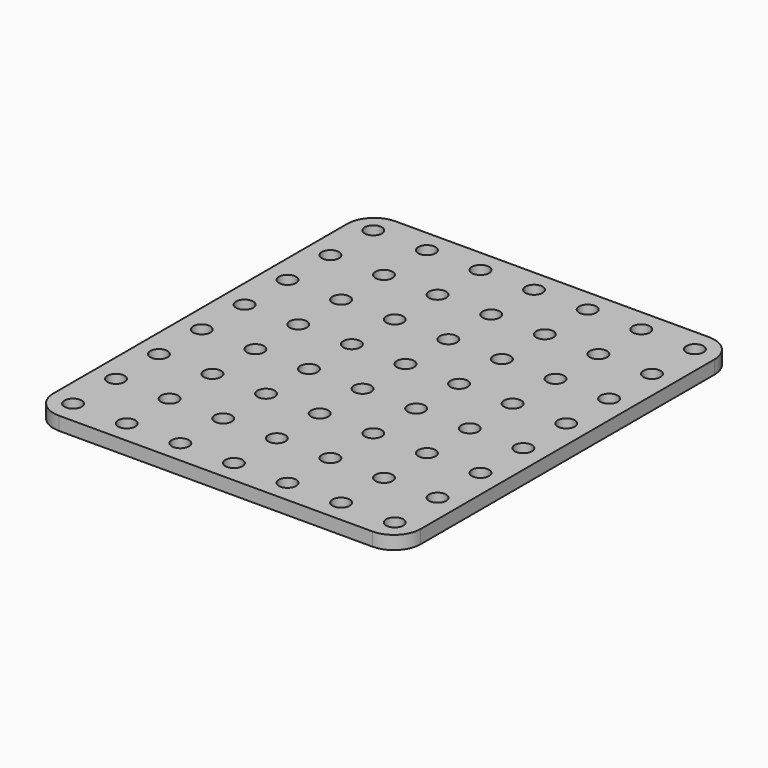
from build123d import *

# Parameters (mm, degrees)
F0_W     = 68.5
F0_H     = 78.5
F0_R     = 1.6
F1_DEPTH = 2.5
F2_R     = 5


with BuildPart() as f1:
    # F0 (on Top) → F1 (new body)
    with BuildSketch(Plane.XY):
        Rectangle(F0_W, F0_H)
        with Locations((-30, -35)):
            Circle(F0_R, mode=Mode.SUBTRACT)
        with Locations((-20, -35)):
            Circle(F0_R, mode=Mode.SUBTRACT)
        with Locations((-30, -25)):
            Circle(F0_R, mode=Mode.SUBTRACT)
        with Locations((-20, -25)):
            Circle(F0_R, mode=Mode.SUBTRACT)
        with Locations((-10, -35)):
            Circle(F0_R, mode=Mode.SUBTRACT)
        with Locations((-10, -25)):
            Circle(F0_R, mode=Mode.SUBTRACT)
        with Locations((-30, -15)):
            Circle(F0_R, mode=Mode.SUBTRACT)
        with Locations((-20, -15)):
            Circle(F0_R, mode=Mode.SUBTRACT)
        with Locations((-30, -5)):
            Circle(F0_R, mode=Mode.SUBTRACT)
        with Locations((-20, -5)):
            Circle(F0_R, mode=Mode.SUBTRACT)
        with Locations((-10, -15)):
            Circle(F0_R, mode=Mode.SUBTRACT)
        with Locations((-10, -5)):
            Circle(F0_R, mode=Mode.SUBTRACT)
        with Locations((0, -35)):
            Circle(F0_R, mode=Mode.SUBTRACT)
        with Locations((10, -35)):
            Circle(F0_R, mode=Mode.SUBTRACT)
        with Locations((0, -25)):
            Circle(F0_R, mode=Mode.SUBTRACT)
        with Locations((10, -25)):
            Circle(F0_R, mode=Mode.SUBTRACT)
        with Locations((20, -35)):
            Circle(F0_R, mode=Mode.SUBTRACT)
        with Locations((30, -35)):
            Circle(F0_R, mode=Mode.SUBTRACT)
        with Locations((20, -25)):
            Circle(F0_R, mode=Mode.SUBTRACT)
        with Locations((30, -25)):
            Circle(F0_R, mode=Mode.SUBTRACT)
        with Locations((0, -15)):
            Circle(F0_R, mode=Mode.SUBTRACT)
        with Locations((10, -15)):
            Circle(F0_R, mode=Mode.SUBTRACT)
        with Locations((0, -5)):
            Circle(F0_R, mode=Mode.SUBTRACT)
        with Locations((10, -5)):
            Circle(F0_R, mode=Mode.SUBTRACT)
        with Locations((20, -15)):
            Circle(F0_R, mode=Mode.SUBTRACT)
        with Locations((30, -15)):
            Circle(F0_R, mode=Mode.SUBTRACT)
        with Locations((20, -5)):
            Circle(F0_R, mode=Mode.SUBTRACT)
        with Locations((30, -5)):
            Circle(F0_R, mode=Mode.SUBTRACT)
        with Locations((-30, 5)):
            Circle(F0_R, mode=Mode.SUBTRACT)
        with Locations((-20, 5)):
            Circle(F0_R, mode=Mode.SUBTRACT)
        with Locations((-30, 15)):
            Circle(F0_R, mode=Mode.SUBTRACT)
        with Locations((-20, 15)):
            Circle(F0_R, mode=Mode.SUBTRACT)
        with Locations((-10, 5)):
            Circle(F0_R, mode=Mode.SUBTRACT)
        with Locations((-10, 15)):
            Circle(F0_R, mode=Mode.SUBTRACT)
        with Locations((-30, 25)):
            Circle(F0_R, mode=Mode.SUBTRACT)
        with Locations((-20, 25)):
            Circle(F0_R, mode=Mode.SUBTRACT)
        with Locations((-30, 35)):
            Circle(F0_R, mode=Mode.SUBTRACT)
        with Locations((-20, 35)):
            Circle(F0_R, mode=Mode.SUBTRACT)
        with Locations((-10, 25)):
            Circle(F0_R, mode=Mode.SUBTRACT)
        with Locations((-10, 35)):
            Circle(F0_R, mode=Mode.SUBTRACT)
        with Locations((0, 5)):
            Circle(F0_R, mode=Mode.SUBTRACT)
        with Locations((10, 5)):
            Circle(F0_R, mode=Mode.SUBTRACT)
        with Locations((0, 15)):
            Circle(F0_R, mode=Mode.SUBTRACT)
        with Locations((10, 15)):
            Circle(F0_R, mode=Mode.SUBTRACT)
        with Locations((20, 5)):
            Circle(F0_R, mode=Mode.SUBTRACT)
        with Locations((30, 5)):
            Circle(F0_R, mode=Mode.SUBTRACT)
        with Locations((20, 15)):
            Circle(F0_R, mode=Mode.SUBTRACT)
        with Locations((30, 15)):
            Circle(F0_R, mode=Mode.SUBTRACT)
        with Locations((0, 25)):
            Circle(F0_R, mode=Mode.SUBTRACT)
        with Locations((10, 25)):
            Circle(F0_R, mode=Mode.SUBTRACT)
        with Locations((0, 35)):
            Circle(F0_R, mode=Mode.SUBTRACT)
        with Locations((10, 35)):
            Circle(F0_R, mode=Mode.SUBTRACT)
        with Locations((20, 25)):
            Circle(F0_R, mode=Mode.SUBTRACT)
        with Locations((30, 25)):
            Circle(F0_R, mode=Mode.SUBTRACT)
        with Locations((20, 35)):
            Circle(F0_R, mode=Mode.SUBTRACT)
        with Locations((30, 35)):
            Circle(F0_R, mode=Mode.SUBTRACT)
    extrude(amount=-F1_DEPTH)

    # F2
    f2_edges = [f1.edges().sort_by_distance(p)[0] for p in [
        (34.25, 39.25, -1.25),
        (-34.25, -39.25, -1.25),
        (34.25, -39.25, -1.25),
        (-34.25, 39.25, -1.25),
    ]]
    fillet(f2_edges, radius=F2_R)


solid = f1.part
